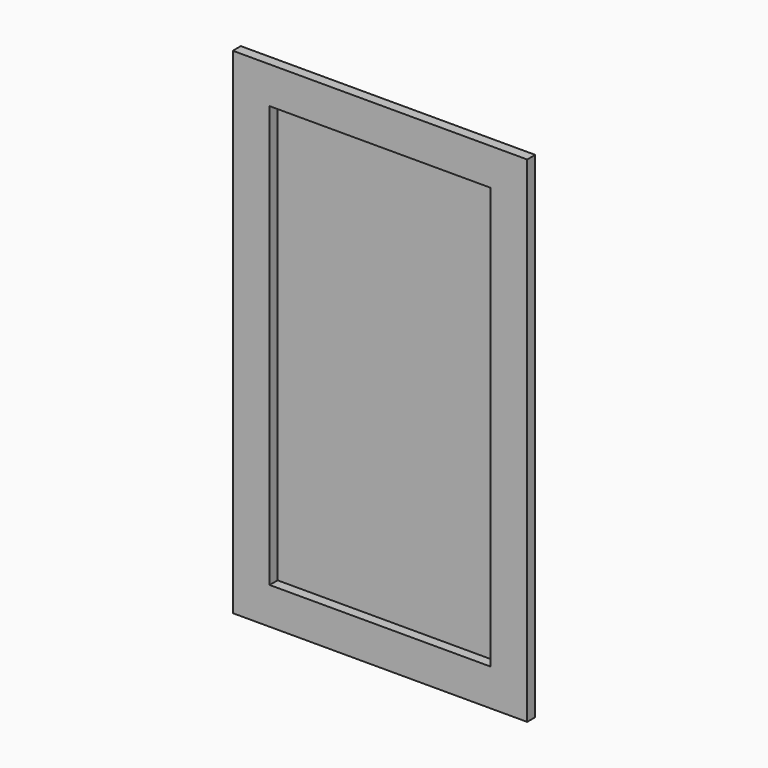
from build123d import *

# Parameters (mm, degrees)
F0_W     = 889
F0_H     = 1651
F1_DEPTH = 25.4
F2_W     = 139.7
F2_H     = 1600.2
F3_DEPTH = 38.1


with BuildPart() as f1:
    # F0 (on Front) → F1 (new body)
    with BuildSketch(Plane.XZ):
        with Locations((0.889, 332.017954)):
            Rectangle(F0_W, F0_H)
    extrude(amount=F1_DEPTH)


with BuildPart() as f3:
    # F2 (on face) → F3 (new body)
    with BuildSketch(Plane.XZ.offset(25.4)):
        with Locations((-488.061, 332.017954)):
            Rectangle(F2_W, F2_H)
        Polygon((-418.211, -468.082046), (-557.911, -468.082046), (-557.911, -607.782046), (559.689, -607.782046), (559.689, -468.082046), (419.989, -468.082046), align=None)
        Polygon((-557.911, 1271.817954), (-557.911, 1132.117954), (-418.211, 1132.117954), (419.989, 1132.117954), (559.689, 1132.117954), (559.689, 1271.817954), align=None)
        with Locations((489.839, 332.017954)):
            Rectangle(F2_W, F2_H)
    extrude(amount=F3_DEPTH)


solid = Compound([f1.part, f3.part])
